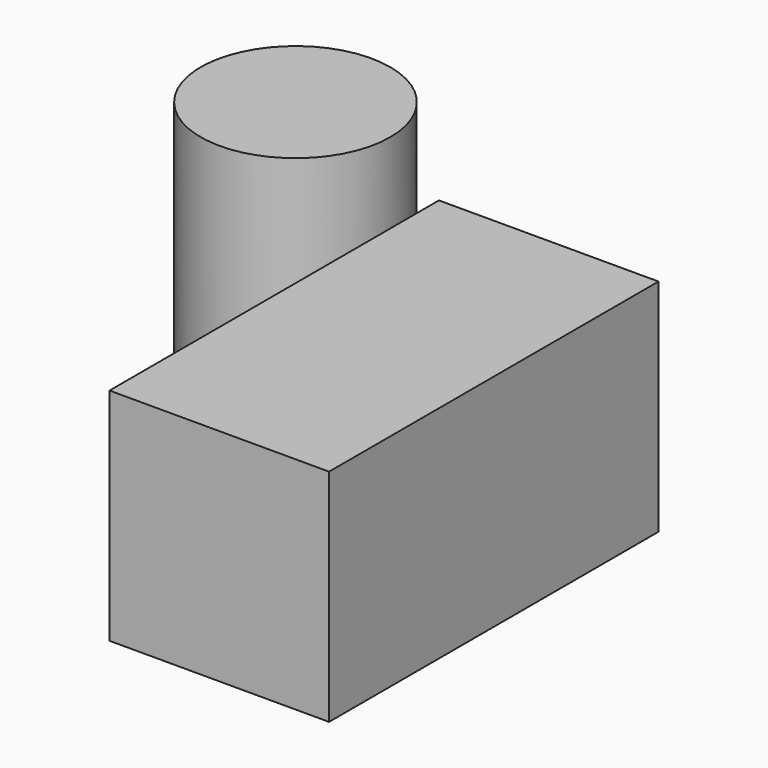
from build123d import *

# Parameters (mm, degrees)
F0_R     = 20.987401
F0_W     = 48.595518
F0_H     = 91.148186
F1_DEPTH = 48.768


with BuildPart() as f1:
    # F0 (on Top) → F1 (new body)
    with BuildSketch(Plane.XY):
        with Locations((-145.212874, 35.556678)):
            Circle(F0_R)
        with Locations((-78.576557, -23.251353)):
            Rectangle(F0_W, F0_H)
    extrude(amount=F1_DEPTH)


solid = f1.part
